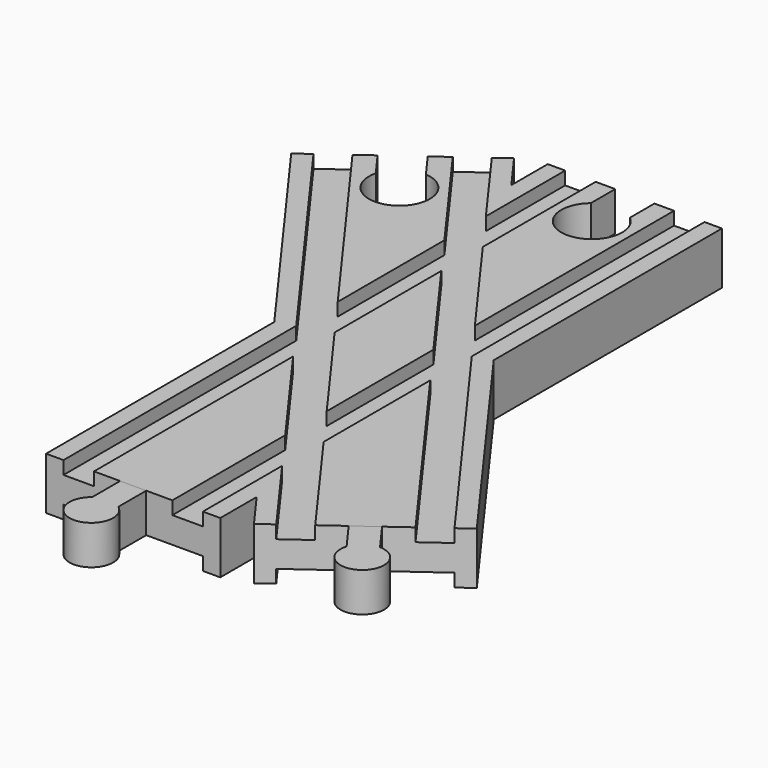
from build123d import *

# Parameters (mm, degrees)
SKETCH004_W          = 32
SKETCH004_H          = 3
SKETCH005_W          = 32
SKETCH005_H          = 3
SKETCH006_W          = 7
SKETCH006_H          = 3
SKETCH007_W          = 7
SKETCH007_H          = 3
SKETCH008_W          = 7
SKETCH008_H          = 3
SKETCH009_W          = 7
SKETCH009_H          = 3
POCKET_DEPTH         = 6.001
POCKET_DEPTH_BACK    = 6.001
POCKET001_DEPTH      = 6.001
POCKET001_DEPTH_BACK = 6.001
PAD_DEPTH            = 6
PAD_DEPTH_BACK       = 3
PAD001_DEPTH         = 6
PAD001_DEPTH_BACK    = 3


with BuildPart() as body:
    # AdditivePipe: sweep along a path in Sketch
    with BuildLine(Plane.XY) as additivepipe_path:
        Line((0, -72), (0, 72))
    # Sketch002 (on DatumPlane) → AdditivePipe (sweep)
    with BuildSketch(Plane.XZ.offset(72)):
        Polygon((-20, 6), (-20, -6), (-16, -6), (-16, -3), (-9, -3), (9, -3), (16, -3), (16, -6), (20, -6), (20, 6), (16, 6), (16, 3), (9, 3), (9, 6), (-9, 6), (-9, 3), (-16, 3), (-16, 6), align=None)
    sweep(path=additivepipe_path.line)

    # AdditivePipe001: sweep along a path in Sketch001
    with BuildLine(Plane.XY) as additivepipe001_path:
        Line((-42.3205381651, 58.249223595), (42.3205381651, -58.249223595))
    # Sketch003 (on DatumPlane) → AdditivePipe001 (sweep)
    with BuildSketch(Plane(origin=(-42.3205381651, 58.249223595, 0), x_dir=(-0.8090169944, -0.5877852523, 0), z_dir=(-0.5877852523, 0.8090169944, 0))):
        Polygon((-20, 6), (-20, -6), (-16, -6), (-16, -3), (-9, -3), (9, -3), (16, -3), (16, -6), (20, -6), (20, 6), (16, 6), (16, 3), (9, 3), (9, 6), (-9, 6), (-9, 3), (-16, 3), (-16, 6), align=None)
    sweep(path=additivepipe001_path.line)

    # SubtractivePipe: sweep along a path in Sketch
    with BuildLine(Plane.XY) as subtractivepipe_path:
        Line((0, -72), (0, 72))
    # Sketch004 (on DatumPlane) → SubtractivePipe (sweep, cut)
    with BuildSketch(Plane.XZ.offset(72)):
        with Locations((0, -4.5)):
            Rectangle(SKETCH004_W, SKETCH004_H)
    sweep(path=subtractivepipe_path.line, mode=Mode.SUBTRACT)

    # SubtractivePipe001: sweep along a path in Sketch001
    with BuildLine(Plane.XY) as subtractivepipe001_path:
        Line((-42.3205381651, 58.249223595), (42.3205381651, -58.249223595))
    # Sketch005 (on DatumPlane) → SubtractivePipe001 (sweep, cut)
    with BuildSketch(Plane(origin=(-42.3205381651, 58.249223595, 0), x_dir=(-0.8090169944, -0.5877852523, 0), z_dir=(-0.5877852523, 0.8090169944, 0))):
        with Locations((0, -4.5)):
            Rectangle(SKETCH005_W, SKETCH005_H)
    sweep(path=subtractivepipe001_path.line, mode=Mode.SUBTRACT)

    # SubtractivePipe002: sweep along a path in Sketch
    with BuildLine(Plane.XY) as subtractivepipe002_path:
        Line((0, -72), (0, 72))
    # Sketch006 (on DatumPlane) → SubtractivePipe002 (sweep, cut)
    with BuildSketch(Plane.XZ.offset(72)):
        with Locations((-12.5, 4.5)):
            Rectangle(SKETCH006_W, SKETCH006_H)
    sweep(path=subtractivepipe002_path.line, mode=Mode.SUBTRACT)

    # SubtractivePipe003: sweep along a path in Sketch
    with BuildLine(Plane.XY) as subtractivepipe003_path:
        Line((0, -72), (0, 72))
    # Sketch007 (on DatumPlane) → SubtractivePipe003 (sweep, cut)
    with BuildSketch(Plane.XZ.offset(72)):
        with Locations((12.5, 4.5)):
            Rectangle(SKETCH007_W, SKETCH007_H)
    sweep(path=subtractivepipe003_path.line, mode=Mode.SUBTRACT)

    # SubtractivePipe004: sweep along a path in Sketch001
    with BuildLine(Plane.XY) as subtractivepipe004_path:
        Line((-42.3205381651, 58.249223595), (42.3205381651, -58.249223595))
    # Sketch008 (on DatumPlane) → SubtractivePipe004 (sweep, cut)
    with BuildSketch(Plane(origin=(-42.3205381651, 58.249223595, 0), x_dir=(-0.8090169944, -0.5877852523, 0), z_dir=(-0.5877852523, 0.8090169944, 0))):
        with Locations((-12.5, 4.5)):
            Rectangle(SKETCH008_W, SKETCH008_H)
    sweep(path=subtractivepipe004_path.line, mode=Mode.SUBTRACT)

    # SubtractivePipe005: sweep along a path in Sketch001
    with BuildLine(Plane.XY) as subtractivepipe005_path:
        Line((-42.3205381651, 58.249223595), (42.3205381651, -58.249223595))
    # Sketch009 (on DatumPlane) → SubtractivePipe005 (sweep, cut)
    with BuildSketch(Plane(origin=(-42.3205381651, 58.249223595, 0), x_dir=(-0.8090169944, -0.5877852523, 0), z_dir=(-0.5877852523, 0.8090169944, 0))):
        with Locations((12.5, 4.5)):
            Rectangle(SKETCH009_W, SKETCH009_H)
    sweep(path=subtractivepipe005_path.line, mode=Mode.SUBTRACT)

    # Sketch010 → Pocket (cut, two sides)
    with BuildSketch(Plane.XY) as pocket_sk:
        with BuildLine():
            Line((-4.5, 72), (4.5, 72))
            Line((4.5, 72), (4.5, 65))
            ThreePointArc((-4.5, 65), (0, 52.6380973526), (4.5, 65))
            Line((-4.5, 72), (-4.5, 65))
        make_face()
    extrude(amount=-POCKET_DEPTH, mode=Mode.SUBTRACT)
    extrude(pocket_sk.sketch, amount=POCKET_DEPTH_BACK, mode=Mode.SUBTRACT)

    # Sketch011 → Pocket001 (cut, two sides)
    with BuildSketch(Plane.XY) as pocket001_sk:
        with BuildLine():
            Line((-45.9611146397, 55.6041899597), (-38.6799616904, 60.8942572303))
            Line((-34.5654649243, 55.2311382696), (-38.6799616904, 60.8942572303))
            ThreePointArc((-41.8466178737, 49.941070999), (-30.9398973326, 42.5851153098), (-34.5654649243, 55.2311382696))
            Line((-45.9611146397, 55.6041899597), (-41.8466178737, 49.941070999))
        make_face()
    extrude(amount=-POCKET001_DEPTH, mode=Mode.SUBTRACT)
    extrude(pocket001_sk.sketch, amount=POCKET001_DEPTH_BACK, mode=Mode.SUBTRACT)


with BuildPart() as body001:
    # Sketch012 → Pad (new body, two sides)
    with BuildSketch(Plane.XY) as pad_sk:
        with BuildLine():
            Line((-3, -72), (3, -72))
            Line((3, -72), (3, -80))
            ThreePointArc((-3, -80), (0, -89), (3, -80))
            Line((-3, -72), (-3, -80))
        make_face()
    extrude(amount=PAD_DEPTH)
    extrude(pad_sk.sketch, amount=-PAD_DEPTH_BACK)


with BuildPart() as body002:
    # Sketch013 → Pad001 (new body, two sides)
    with BuildSketch(Plane.XY) as pad001_sk:
        with BuildLine():
            Line((39.8934871819, -60.0125793519), (44.7475891482, -56.4858678381))
            Line((44.7475891482, -56.4858678381), (49.4498711665, -62.9580037931))
            ThreePointArc((44.5957692003, -66.4847153069), (52.312887454, -72.0025124994), (49.4498711665, -62.9580037931))
            Line((39.8934871819, -60.0125793519), (44.5957692003, -66.4847153069))
        make_face()
    extrude(amount=PAD001_DEPTH)
    extrude(pad001_sk.sketch, amount=-PAD001_DEPTH_BACK)


solid = Compound([body.part, body001.part, body002.part])
